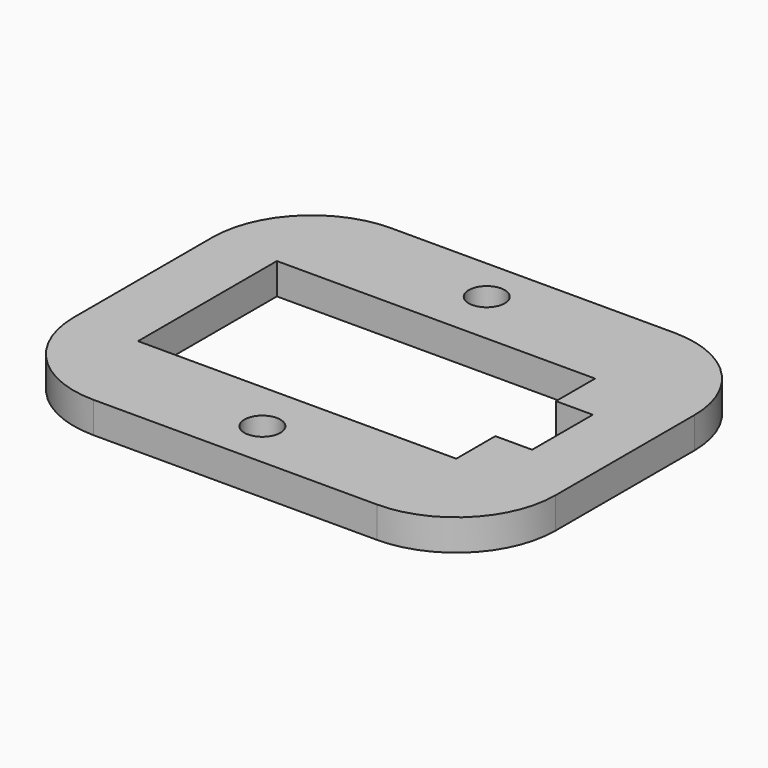
from build123d import *

# Parameters (mm, degrees)
F0_R     = 1.27
F1_DEPTH = 2.2


with BuildPart() as f1:
    # F0 (on Top) → F1 (new body)
    with BuildSketch(Plane.XY):
        with BuildLine():
            ThreePointArc((0, 7), (2.050253, 2.050253), (7, 0))
            Line((7, 0), (27, 0))
            ThreePointArc((27, 0), (31.949747, 2.050253), (34, 7))
            Line((34, 7), (34, 19.25))
            ThreePointArc((34, 19.25), (31.949747, 24.199747), (27, 26.25))
            Line((27, 26.25), (7, 26.25))
            ThreePointArc((7, 26.25), (2.050253, 24.199747), (0, 19.25))
            Line((0, 19.25), (0, 7))
        make_face()
        with Locations((16.231103, 3.355003)):
            Circle(F0_R, mode=Mode.SUBTRACT)
        with Locations((16.231103, 23.15167)):
            Circle(F0_R, mode=Mode.SUBTRACT)
        Polygon((4.537634, 7), (4.537634, 19.25), (27, 19.25), (27, 15.8), (29.597666, 15.8), (29.597666, 10.45), (27, 10.45), (27, 7), align=None, mode=Mode.SUBTRACT)
    extrude(amount=F1_DEPTH)


solid = f1.part
